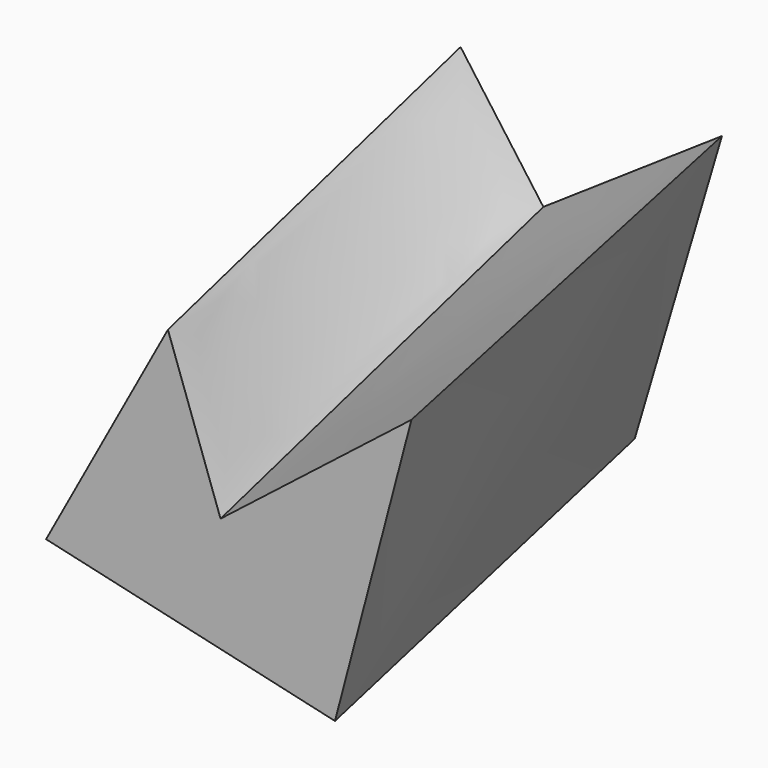
from build123d import *


with BuildPart() as f3:
    # F2 (on offset) → F3 section 0
    with BuildSketch(Plane.XZ.offset(100)):
        Polygon((-9.211211, -24.867332), (-23.750629, 16.396627), (-57.418559, -45.531534), (22.419471, -63.79839), (43.546464, 16.360165), align=None)
    # F0 (on Front) → F3 section 1
    with BuildSketch(Plane.XZ):
        Polygon((0, 13.340164), (-22.878868, 44.798606), (-57.663936, -17.643442), (25.245899, -34.856558), (49.34426, 46.618853), align=None)
    loft()


solid = f3.part
